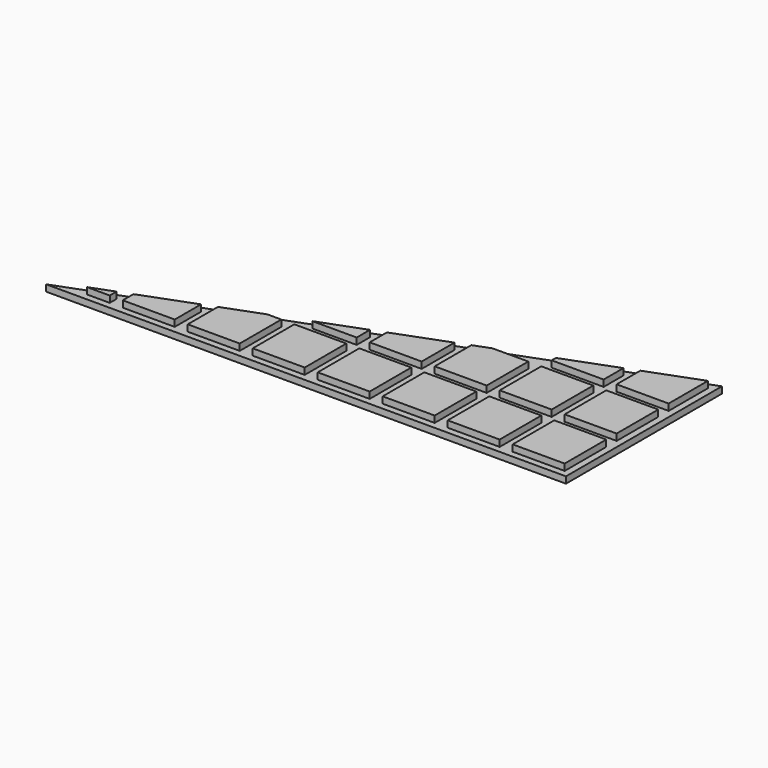
from build123d import *

# Parameters (mm, degrees)
F1_DEPTH = 1
F2_W     = 8
F2_H     = 8
F3_DEPTH = 1


with BuildPart() as f1:
    # F0 (on Top) → F1 (new body)
    with BuildSketch(Plane.XY):
        Polygon((36.5346006826, 44.8929812461), (-43.4653993174, 14.8929812461), (36.5346006826, 14.8929812461), align=None)
    extrude(amount=F1_DEPTH)

    # F2 (on face) → F3 (join)
    with BuildSketch(Plane.XY.offset(1)):
        Polygon((-34.4653993174, 15.8929812461), (-34.4653993174, 17.1999807779), (-37.9507314023, 15.8929812461), align=None)
        Polygon((-24.4653993174, 15.8929812461), (-24.4653993174, 20.9499807779), (-32.4653993174, 17.9499807779), (-32.4653993174, 15.8929812461), align=None)
        Polygon((-14.4653993174, 15.8929812461), (-14.4653993174, 23.8929812461), (-16.617398069, 23.8929812461), (-22.4653993174, 21.6999807779), (-22.4653993174, 15.8929812461), align=None)
        with Locations((-8.4653993174, 19.8929812461)):
            Rectangle(F2_W, F2_H)
        Polygon((-4.4653993174, 25.8929812461), (-4.4653993174, 28.4499807779), (-11.2840647357, 25.8929812461), align=None)
        Polygon((5.5346006826, 25.8929812461), (5.5346006826, 32.1999807779), (-2.4653993174, 29.1999807779), (-2.4653993174, 25.8929812461), align=None)
        with Locations((1.5346006826, 19.8929812461)):
            Rectangle(F2_W, F2_H)
        Polygon((15.5346006826, 25.8929812461), (15.5346006826, 33.8929812461), (10.0492685977, 33.8929812461), (7.5346006826, 32.9499807779), (7.5346006826, 25.8929812461), align=None)
        with Locations((11.5346006826, 19.8929812461)):
            Rectangle(F2_W, F2_H)
        with Locations((21.5346006826, 29.8929812461)):
            Rectangle(F2_W, F2_H)
        Polygon((25.5346006826, 35.8929812461), (25.5346006826, 39.6999807779), (17.5346006826, 36.6999807779), (17.5346006826, 35.8929812461), align=None)
        with Locations((21.5346006826, 19.8929812461)):
            Rectangle(F2_W, F2_H)
        Polygon((35.5346006826, 35.8929812461), (35.5346006826, 43.4499807779), (27.5346006826, 40.4499807779), (27.5346006826, 35.8929812461), align=None)
        with Locations((31.5346006826, 29.8929812461)):
            Rectangle(F2_W, F2_H)
        with Locations((31.5346006826, 19.8929812461)):
            Rectangle(F2_W, F2_H)
    extrude(amount=F3_DEPTH)


solid = f1.part
